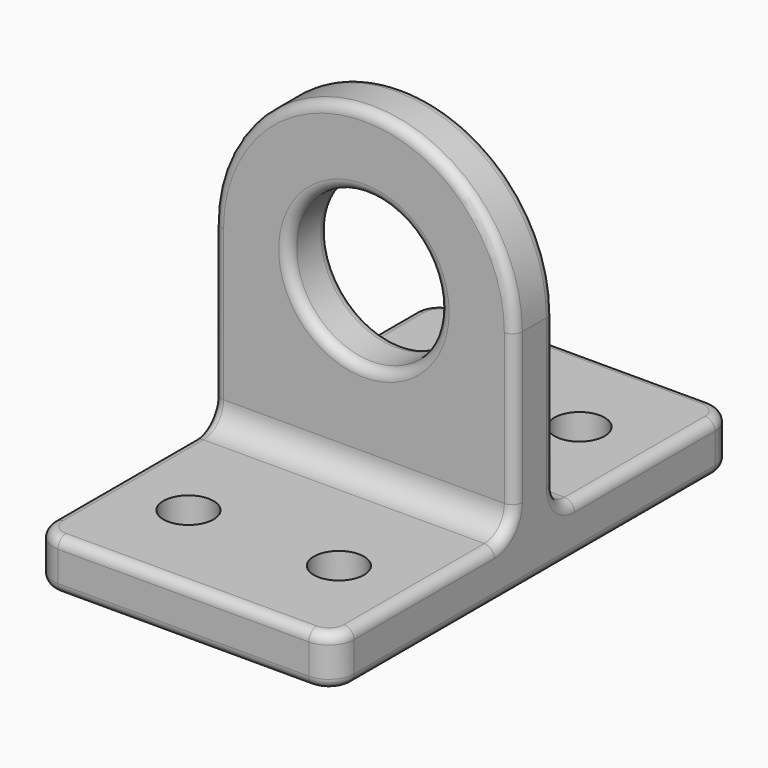
from build123d import *

# Parameters (mm, degrees)
F0_W     = 76.2
F0_H     = 12.7
F1_DEPTH = 63.5
F0_R     = 19.05
F2_DEPTH = 6.35
F3_R     = 6.35
F4_DEPTH = 95.251
F5_R     = 6.35
F6_R     = 2.54


with BuildPart() as f1:
    # F0 (on Front) → F1 (new body, symmetric)
    with BuildSketch(Plane.XZ):
        with Locations((0, -50.8)):
            Rectangle(F0_W, F0_H)
    extrude(amount=F1_DEPTH, both=True)

    # F0 (on Front) → F2 (join, symmetric)
    with BuildSketch(Plane.XZ):
        with BuildLine():
            ThreePointArc((-38.1, 0), (0, -38.1), (38.1, 0))
            ThreePointArc((38.1, 0), (0, 38.1), (-38.1, 0))
        make_face()
        Circle(F0_R, mode=Mode.SUBTRACT)
        with BuildLine():
            Line((38.1, -44.45), (38.1, 0))
            ThreePointArc((38.1, 0), (0, -38.1), (-38.1, 0))
            Line((-38.1, 0), (-38.1, -44.45))
            Line((-38.1, -44.45), (38.1, -44.45))
        make_face()
    extrude(amount=F2_DEPTH, both=True)

    # F3 (on face) → F4 (cut, through all)
    with BuildSketch(Plane(origin=(0, 0, -57.15), x_dir=(1, 0, 0), z_dir=(0, 0, -1))):
        with Locations((19.05, 38.1)):
            Circle(F3_R)
        with Locations((-19.05, 38.1)):
            Circle(F3_R)
        with Locations((-19.05, -38.1)):
            Circle(F3_R)
        with Locations((19.05, -38.1)):
            Circle(F3_R)
    extrude(amount=-F4_DEPTH, mode=Mode.SUBTRACT)

    # F5
    f5_edges = [f1.edges().sort_by_distance(p)[0] for p in [
        (0, -6.35, -44.45),
        (-38.1, -63.5, -50.8),
        (38.1, -63.5, -50.8),
        (38.1, 63.5, -50.8),
        (0, 6.35, -44.45),
        (-38.1, 63.5, -50.8),
    ]]
    fillet(f5_edges, radius=F5_R)

    # F6
    f6_edges = [f1.edges().sort_by_distance(p)[0] for p in [
        (38.1, -6.35, -19.05),
        (38.1, 6.35, -19.05),
        (38.1, 0, -57.15),
        (-19.05, -6.35, 0),
        (-19.05, 6.35, 0),
    ]]
    fillet(f6_edges, radius=F6_R)


solid = f1.part
